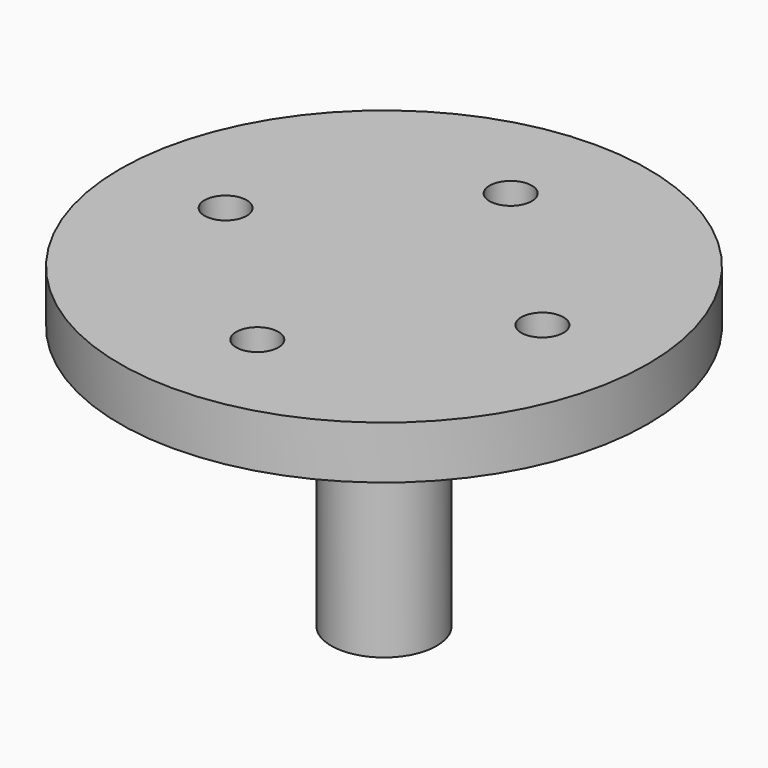
from build123d import *

# Parameters (mm, degrees)
F0_R     = 25
F1_DEPTH = 5
F2_R     = 5
F3_DEPTH = 25
F5_D     = 5.1
F5_DEPTH = 20
F5_TIP   = 1.5321945785
F7_D     = 4
F7_DEPTH = 20
F7_TIP   = 1.2017212381


with BuildPart() as f1:
    # F0 (on Top) → F1 (new body)
    with BuildSketch(Plane.XY):
        Circle(F0_R)
    extrude(amount=F1_DEPTH)

    # F2 (on face) → F3 (join)
    with BuildSketch(Plane(origin=(0, 0, 0), x_dir=(1, 0, 0), z_dir=(0, 0, -1))):
        Circle(F2_R)
    extrude(amount=F3_DEPTH)

    # F5
    with Locations(Plane(origin=(0, 0, -25), x_dir=(1, 0, 0), z_dir=(0, 0, -1))):
        with Locations((0, 0)):
            Hole(F5_D / 2, depth=F5_DEPTH)
            with Locations((0, 0, -(F5_DEPTH + F5_TIP / 2))):  # 118° drill point
                Cone(0, F5_D / 2, F5_TIP, mode=Mode.SUBTRACT)

    # F7
    with Locations(Plane.XY.offset(5)):
        with Locations((0, 15), (-15, 0), (0, -15), (15, 0)):
            Hole(F7_D / 2, depth=F7_DEPTH)
            with Locations((0, 0, -(F7_DEPTH + F7_TIP / 2))):  # 118° drill point
                Cone(0, F7_D / 2, F7_TIP, mode=Mode.SUBTRACT)


solid = f1.part
